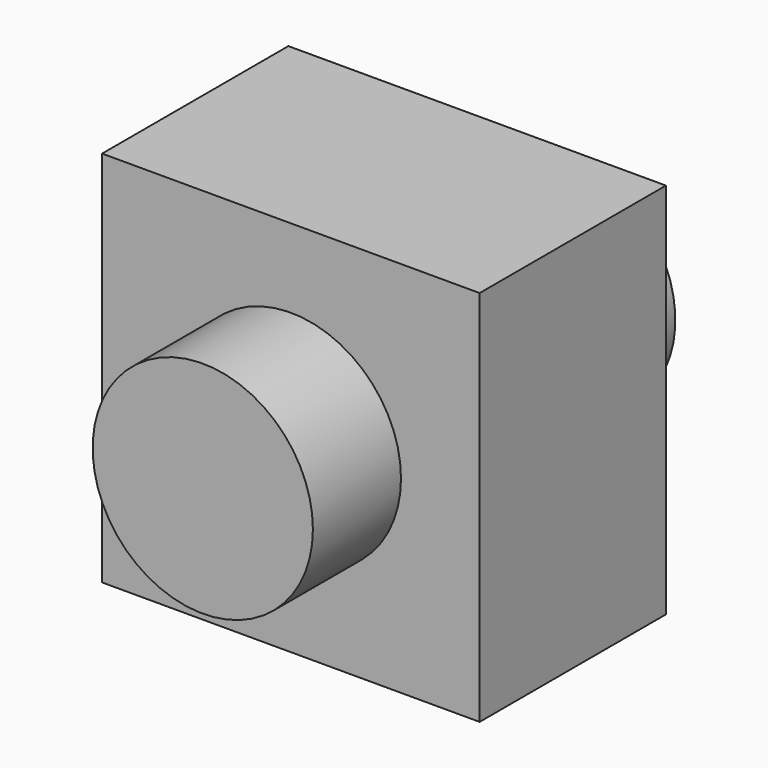
from build123d import *

# Parameters (mm, degrees)
F0_W     = 60
F0_H     = 60
F1_DEPTH = 18.5
F2_R     = 17.5
F4_DEPTH = 17.5
F3_R     = 17.4998645961
F5_DEPTH = 17.5


with BuildPart() as f1:
    # F0 (on Front) → F1 (new body, symmetric)
    with BuildSketch(Plane.XZ):
        Rectangle(F0_W, F0_H)
    extrude(amount=F1_DEPTH, both=True)

    # F2 (on face) → F4 (join)
    with BuildSketch(Plane.XZ.offset(18.5)):
        Circle(F2_R)
    extrude(amount=F4_DEPTH)

    # F3 (on face) → F5 (join)
    with BuildSketch(Plane(origin=(0, 18.5, 0), x_dir=(-1, 0, 0), z_dir=(0, 1, 0))):
        Circle(F3_R)
    extrude(amount=F5_DEPTH)


solid = f1.part
